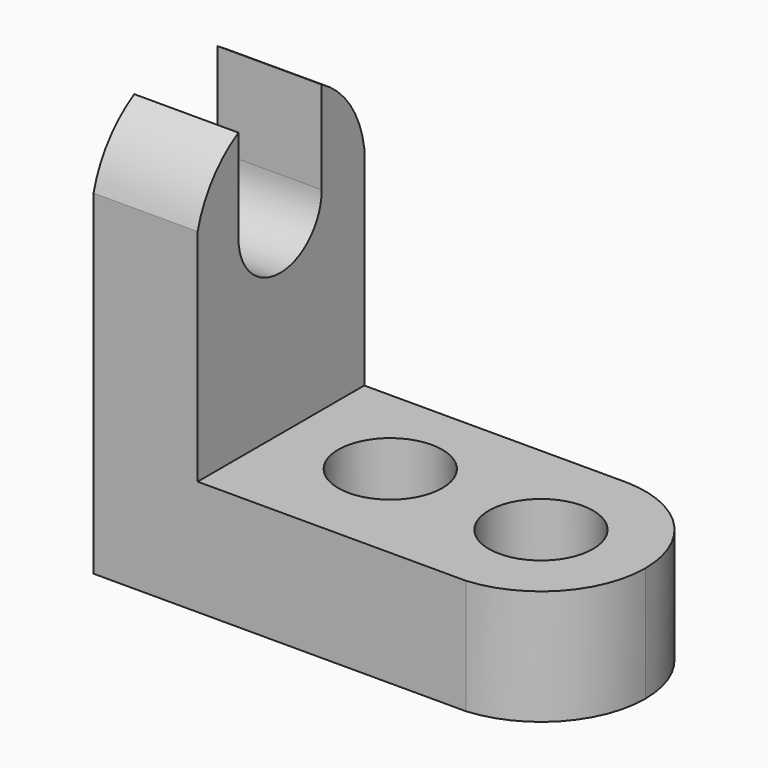
from build123d import *

# Parameters (mm, degrees)
F1_DEPTH = 25.4
F3_DEPTH = 12.701
F5_DEPTH = 14.014792
F6_R     = 6.35
F7_DEPTH = 14.014792
F9_DEPTH = 12.701


with BuildPart() as f1:
    # F0 (on Front) → F1 (new body)
    with BuildSketch(Plane.XZ):
        Polygon((-41.213709, 66.43077), (-53.913709, 66.43077), (-53.913709, 15.63077), (3.236291, 15.63077), (3.236291, 29.644562), (-41.213709, 29.644562), align=None)
    extrude(amount=F1_DEPTH)

    # F2 (on face) → F3 (cut, through all)
    with BuildSketch(Plane.YZ.offset(-41.213709)):
        with BuildLine():
            ThreePointArc((-25.4, 56.502793), (-12.139061, 66.23636), (0, 55.135097))
            Line((0, 55.135097), (0, 66.43077))
            Line((0, 66.43077), (-25.4, 66.43077))
            Line((-25.4, 66.43077), (-25.4, 56.502793))
        make_face()
    extrude(amount=-F3_DEPTH, mode=Mode.SUBTRACT)

    # F4 (on face) → F5 (cut, through all)
    with BuildSketch(Plane.XY.offset(29.644562)):
        with BuildLine():
            ThreePointArc((-9.146443, 0), (-0.370686, -3.842993), (3.236291, -12.718364))
            Line((3.236291, -12.718364), (3.236291, 0))
            Line((3.236291, 0), (-9.146443, 0))
        make_face()
        with BuildLine():
            ThreePointArc((3.236291, -12.718364), (-0.135122, -21.345181), (-8.462597, -25.4))
            Line((-8.462597, -25.4), (3.236291, -25.4))
            Line((3.236291, -25.4), (3.236291, -12.718364))
        make_face()
    extrude(amount=-F5_DEPTH, mode=Mode.SUBTRACT)

    # F6 (on face) → F7 (cut, through all)
    with BuildSketch(Plane.XY.offset(29.644562)):
        with Locations((-28.536622, -11.881827)):
            Circle(F6_R)
        with Locations((-9.486622, -12.718364)):
            Circle(F6_R)
    extrude(amount=-F7_DEPTH, mode=Mode.SUBTRACT)

    # F8 (on face) → F9 (cut, through all)
    with BuildSketch(Plane.YZ.offset(-41.213709)):
        with BuildLine():
            ThreePointArc((-19.186374, 53.286288), (-12.836374, 59.636288), (-6.486374, 53.286288))
            Line((-6.486374, 53.286288), (-6.486374, 64.594166))
            ThreePointArc((-6.486374, 64.594166), (-12.836374, 66.25512), (-19.186374, 64.594166))
            Line((-19.186374, 64.594166), (-19.186374, 53.286288))
        make_face()
        with BuildLine():
            ThreePointArc((-19.186374, 53.286288), (-12.836374, 46.936288), (-6.486374, 53.286288))
            ThreePointArc((-6.486374, 53.286288), (-12.836374, 59.636288), (-19.186374, 53.286288))
        make_face()
    extrude(amount=-F9_DEPTH, mode=Mode.SUBTRACT)


solid = f1.part
